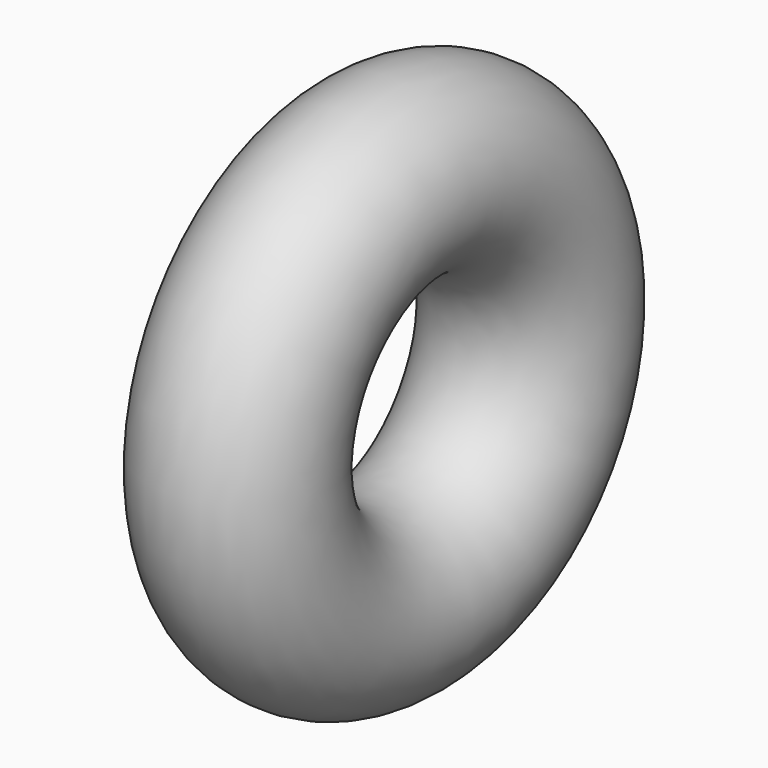
from build123d import *

# Parameters (mm, degrees)
F0_R = 19.05


with BuildPart() as f1:
    # F0 (on Front) → F1 (revolve)
    with BuildSketch(Plane.XZ):
        Circle(F0_R)
    revolve(axis=Axis((4e-06, 0, 39.175402), (-1, 0, 0)))


solid = f1.part
